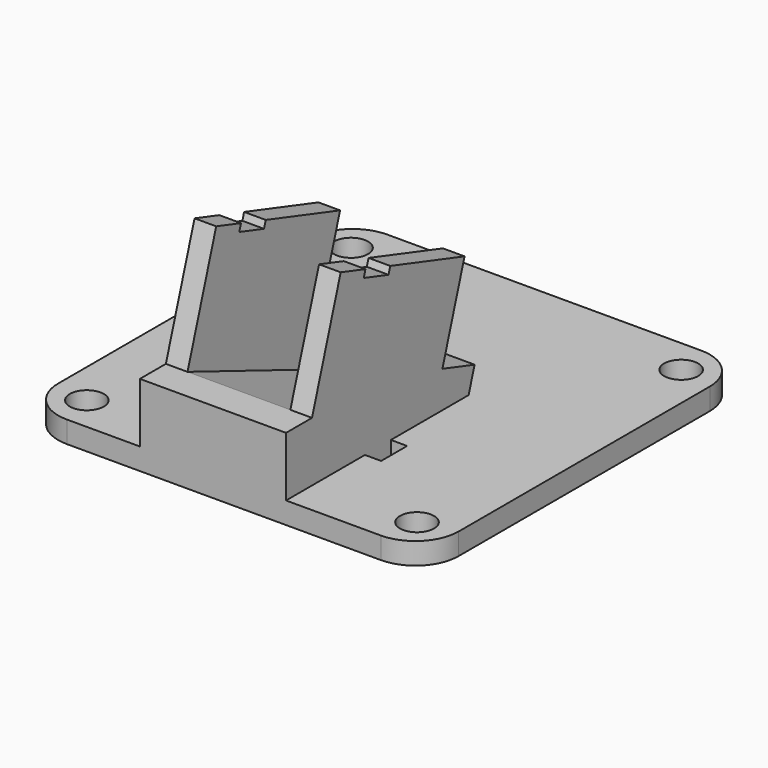
from build123d import *

# Parameters (mm, degrees)
F0_W     = 37
F0_H     = 37
F0_R     = 1.575
F1_DEPTH = 2
F3_DEPTH = 26.25
F4_DEPTH = 24.25
F5_DEPTH = 14.75
F6_DEPTH = 12.75
F7_R     = 4
F8_W     = 1.5
F8_H     = 3
F9_DEPTH = 25


with BuildPart() as f1:
    # F0 (on Top) → F1 (new body)
    with BuildSketch(Plane.XY):
        Rectangle(F0_W, F0_H)
        with Locations((-15.25, -15.25)):
            Circle(F0_R, mode=Mode.SUBTRACT)
        with Locations((15.25, -15.25)):
            Circle(F0_R, mode=Mode.SUBTRACT)
        with Locations((-15.25, 15.25)):
            Circle(F0_R, mode=Mode.SUBTRACT)
        with Locations((15.25, 15.25)):
            Circle(F0_R, mode=Mode.SUBTRACT)
    extrude(amount=F1_DEPTH)

    # F2 (on face) → F3 (join)
    with BuildSketch(Plane.YZ.offset(18.5)):
        Polygon((-12.187941467, 17.9895313658), (-15.5, 7.5), (-1.5066505404, 2), (-0.4433530164, 5.3675409473), (2.1159649409, 13.4730879118), (-6.4663789039, 16.1829539842), (-6.6681133781, 15.5440461646), (-9.5288946597, 16.4473348554), (-9.3271601854, 17.086242675), align=None)
        Polygon((-18.5, 7.5), (-18.5, 2), (-1.5066505404, 2), (-15.5, 7.5), align=None)
        Polygon((-0.4433530164, 5.3675409473), (-1.5066505404, 2), (2.58314132, 2), (3.2756626496, 4.1932656492), align=None)
    extrude(amount=-F3_DEPTH)

    # F2 (on face) → F4 (cut)
    with BuildSketch(Plane.YZ.offset(18.5)):
        Polygon((-15.5, 7.5), (-1.5066505404, 2), (-0.4433530164, 5.3675409473), (2.1159649409, 13.4730879118), (-6.4663789039, 16.1829539842), (-6.6681133781, 15.5440461646), (-9.5288946597, 16.4473348554), (-9.3271601854, 17.086242675), (-12.187941467, 17.9895313658), align=None)
    extrude(amount=-F4_DEPTH, mode=Mode.SUBTRACT)

    # F2 (on face) → F5 (join)
    with BuildSketch(Plane.YZ.offset(18.5)):
        Polygon((-12.187941467, 17.9895313658), (-15.5, 7.5), (-1.5066505404, 2), (-0.4433530164, 5.3675409473), (2.1159649409, 13.4730879118), (-6.4663789039, 16.1829539842), (-6.6681133781, 15.5440461646), (-9.5288946597, 16.4473348554), (-9.3271601854, 17.086242675), align=None)
        Polygon((-18.5, 7.5), (-18.5, 2), (-1.5066505404, 2), (-15.5, 7.5), align=None)
        Polygon((-0.4433530164, 5.3675409473), (-1.5066505404, 2), (2.58314132, 2), (3.2756626496, 4.1932656492), align=None)
    extrude(amount=-F5_DEPTH)

    # F2 (on face) → F6 (cut)
    with BuildSketch(Plane.YZ.offset(18.5)):
        Polygon((-12.187941467, 17.9895313658), (-15.5, 7.5), (-1.5066505404, 2), (-0.4433530164, 5.3675409473), (2.1159649409, 13.4730879118), (-6.4663789039, 16.1829539842), (-6.6681133781, 15.5440461646), (-9.5288946597, 16.4473348554), (-9.3271601854, 17.086242675), align=None)
        Polygon((-18.5, 7.5), (-18.5, 2), (-1.5066505404, 2), (-15.5, 7.5), align=None)
        Polygon((-0.4433530164, 5.3675409473), (-1.5066505404, 2), (2.58314132, 2), (3.2756626496, 4.1932656492), align=None)
    extrude(amount=-F6_DEPTH, mode=Mode.SUBTRACT)

    # F7
    f7_edges = [f1.edges().sort_by_distance(p)[0] for p in [
        (18.5, -18.5, 1),
        (18.5, 18.5, 1),
        (-18.5, 18.5, 1),
        (-18.5, -18.5, 1),
    ]]
    fillet(f7_edges, radius=F7_R)

    # F8 (on face) → F9 (cut)
    with BuildSketch(Plane.XY.offset(2)):
        with Locations((-8.5, -7.8909632415)):
            Rectangle(F8_W, F8_H)
        with Locations((6.5, -7.8909632415)):
            Rectangle(F8_W, F8_H)
    extrude(amount=-F9_DEPTH, mode=Mode.SUBTRACT)


solid = f1.part
